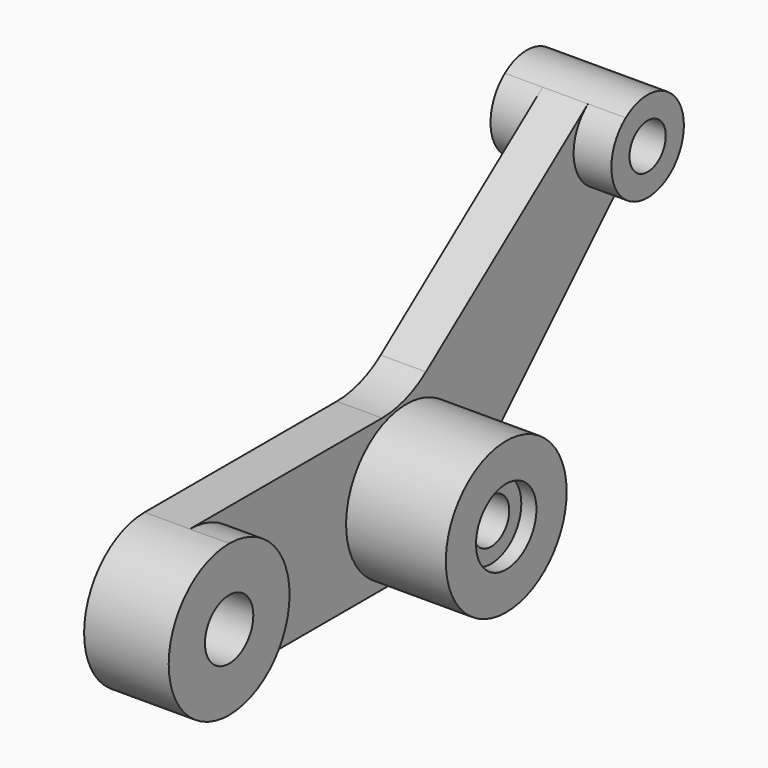
from build123d import *

# Parameters (mm, degrees)
F1_DEPTH      = 15
F0_R          = 10
F2_DEPTH      = 13
F2_DEPTH_BACK = 15
F0_R_2        = 12.5
F3_DEPTH      = 33
F3_DEPTH_BACK = 15
F0_R_3        = 7.5
F4_DEPTH      = 28
F4_DEPTH_BACK = 10
F5_DEPTH      = 12.5
F5_DEPTH_BACK = 27.5


with BuildPart() as f1:
    # F0 (on Right) → F1 (new body)
    with BuildSketch(Plane.YZ):
        with BuildLine():
            ThreePointArc((-75, 25), (-82.32233, 7.32233), (-100, 0))
            Line((-100, 0), (-10.355339, 0))
            ThreePointArc((-10.355339, 0), (-28.033009, 42.677669), (14.644661, 25))
            ThreePointArc((14.644661, 25), (12.741649, 15.432914), (7.32233, 7.32233))
            Line((7.32233, 7.32233), (83.8967, 83.8967))
            ThreePointArc((83.8967, 83.8967), (62.253682, 85.370134), (64.715921, 106.923061))
            Line((64.715921, 106.923061), (-2.317082, 56.095038))
            ThreePointArc((-2.317082, 56.095038), (-10.881435, 51.564557), (-20.443107, 50))
            Line((-20.443107, 50), (-100, 50))
            ThreePointArc((-100, 50), (-82.32233, 42.67767), (-75, 25))
        make_face()
    extrude(amount=-F1_DEPTH)

    # F0 (on Right) → F2 (join, two sides)
    with BuildSketch(Plane.YZ) as f2_sk:
        with BuildLine():
            ThreePointArc((-100, 50), (-125, 25), (-100, 0))
            ThreePointArc((-100, 0), (-82.32233, 7.32233), (-75, 25))
            ThreePointArc((-75, 25), (-82.32233, 42.67767), (-100, 50))
        make_face()
        with Locations((-100, 25)):
            Circle(F0_R, mode=Mode.SUBTRACT)
    extrude(amount=F2_DEPTH)
    extrude(f2_sk.sketch, amount=-F2_DEPTH_BACK)

    # F0 (on Right) → F3 (join, two sides)
    with BuildSketch(Plane.YZ) as f3_sk:
        with BuildLine():
            ThreePointArc((14.644661, 25), (-28.033009, 42.677669), (-10.355339, 0))
            ThreePointArc((-10.355339, 0), (-0.788253, 1.903012), (7.32233, 7.32233))
            ThreePointArc((7.32233, 7.32233), (12.741649, 15.432914), (14.644661, 25))
        make_face()
        with Locations((-10.355339, 25)):
            Circle(F0_R_2, mode=Mode.SUBTRACT)
    extrude(amount=F3_DEPTH)
    extrude(f3_sk.sketch, amount=-F3_DEPTH_BACK)

    # F0 (on Right) → F4 (join, two sides)
    with BuildSketch(Plane.YZ) as f4_sk:
        with Locations((-10.355339, 25)):
            Circle(F0_R_2)
        with Locations((-10.355339, 25)):
            Circle(F0_R_3, mode=Mode.SUBTRACT)
    extrude(amount=F4_DEPTH)
    extrude(f4_sk.sketch, amount=-F4_DEPTH_BACK)

    # F0 (on Right) → F5 (join, two sides)
    with BuildSketch(Plane.YZ) as f5_sk:
        with BuildLine():
            ThreePointArc((64.715921, 106.923061), (62.253682, 85.370134), (83.8967, 83.8967))
            Line((83.8967, 83.8967), (84.852814, 84.852814))
            ThreePointArc((84.852814, 84.852814), (87.763, 89.544172), (88.778934, 94.97058))
            ThreePointArc((88.778934, 94.97058), (80.45182, 108.404589), (64.715921, 106.923061))
        make_face()
        with Locations((73.778934, 94.97058)):
            Circle(F0_R_3, mode=Mode.SUBTRACT)
    extrude(amount=F5_DEPTH)
    extrude(f5_sk.sketch, amount=-F5_DEPTH_BACK)


solid = f1.part
